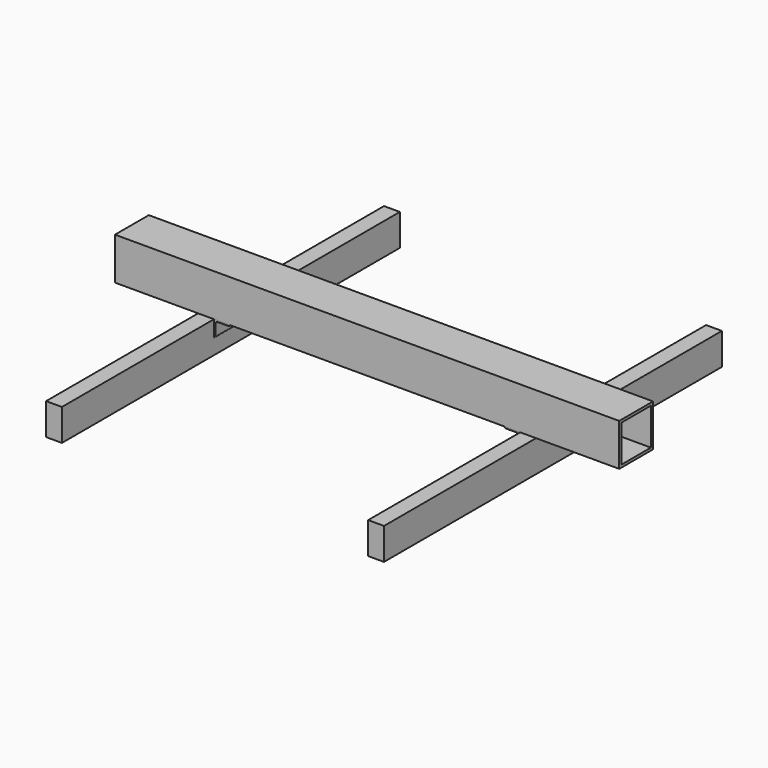
from build123d import *

# Parameters (mm, degrees)
F0_W     = 38.1
F0_H     = 76.2
F1_DEPTH = 508
F2_W     = 101.6
F2_H     = 101.6
F2_W_2   = 88.9
F2_H_2   = 88.9
F3_DEPTH = 606.425
F5_DEPTH = 50.8


with BuildPart() as f1:
    # F0 (on Front) → F1 (new body, symmetric)
    with BuildSketch(Plane.XZ):
        with Locations((-387.35, 0)):
            Rectangle(F0_W, F0_H)
        with Locations((387.35, 0)):
            Rectangle(F0_W, F0_H)
    extrude(amount=F1_DEPTH, both=True)


with BuildPart() as f3:
    # F2 (on Right) → F3 (new body, symmetric)
    with BuildSketch(Plane.YZ):
        with Locations((0, 88.9)):
            Rectangle(F2_W, F2_H)
        with Locations((0, 88.9)):
            Rectangle(F2_W_2, F2_H_2, mode=Mode.SUBTRACT)
    extrude(amount=F3_DEPTH, both=True)


with BuildPart() as f5:
    # F4 (on Front) → F5 (new body, symmetric)
    with BuildSketch(Plane.XZ):
        with BuildLine():
            Line((-330.2, 38.1), (-368.3, 38.1))
            Line((-368.3, 38.1), (-368.3, 0))
            ThreePointArc((-368.3, 0), (-366.054936, 0.929936), (-365.125, 3.175))
            Line((-365.125, 3.175), (-365.125, 28.575))
            ThreePointArc((-365.125, 28.575), (-363.265128, 33.065128), (-358.775, 34.925))
            Line((-358.775, 34.925), (-333.375, 34.925))
            ThreePointArc((-333.375, 34.925), (-331.129936, 35.854936), (-330.2, 38.1))
        make_face()
        with BuildLine():
            ThreePointArc((365.125, 3.175), (366.054936, 0.929936), (368.3, 0))
            Line((368.3, 0), (368.3, 38.1))
            Line((368.3, 38.1), (330.2, 38.1))
            ThreePointArc((330.2, 38.1), (331.129936, 35.854936), (333.375, 34.925))
            Line((333.375, 34.925), (358.775, 34.925))
            ThreePointArc((358.775, 34.925), (363.265128, 33.065128), (365.125, 28.575))
            Line((365.125, 28.575), (365.125, 3.175))
        make_face()
    extrude(amount=F5_DEPTH, both=True)


solid = Compound([f1.part, f3.part, f5.part])
